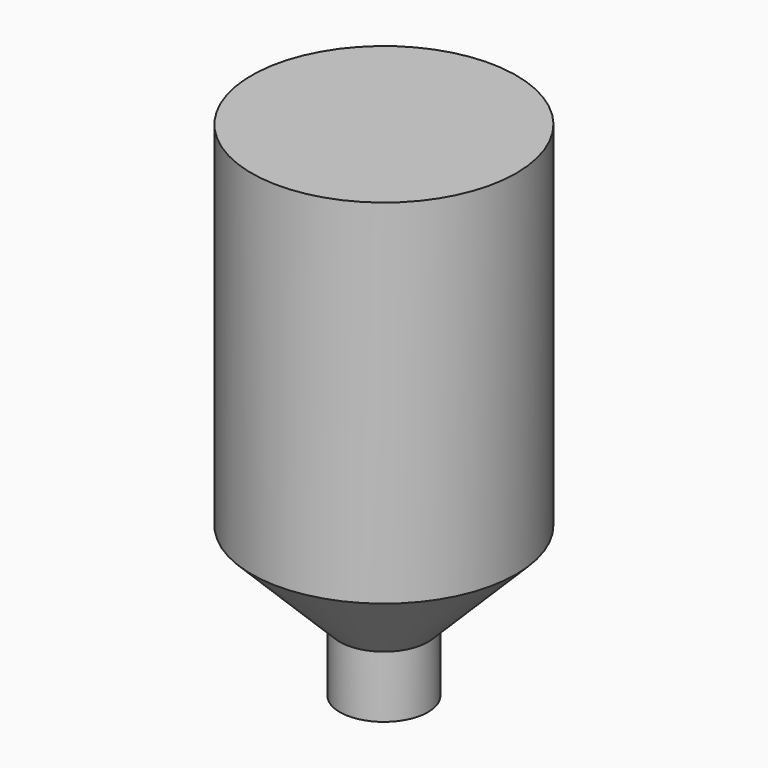
from build123d import *

# Parameters (mm, degrees)
F0_R     = 38.1
F1_DEPTH = 101.6
F2_R     = 38.1
F3_DEPTH = 25.4
F3_TAPER = 45
F4_R     = 12.7
F5_DEPTH = 17.78


with BuildPart() as f1:
    # F0 (on Top) → F1 (new body)
    with BuildSketch(Plane.XY):
        Circle(F0_R)
    extrude(amount=-F1_DEPTH)

    # F2 (on face) → F3 (join)
    with BuildSketch(Plane(origin=(0, 0, -101.6), x_dir=(1, 0, 0), z_dir=(0, 0, -1))):
        Circle(F2_R)
    extrude(amount=F3_DEPTH, taper=F3_TAPER)

    # F4 (on face) → F5 (join)
    with BuildSketch(Plane(origin=(0, 0, -127), x_dir=(1, 0, 0), z_dir=(0, 0, -1))):
        Circle(F4_R)
    extrude(amount=F5_DEPTH)


solid = f1.part
